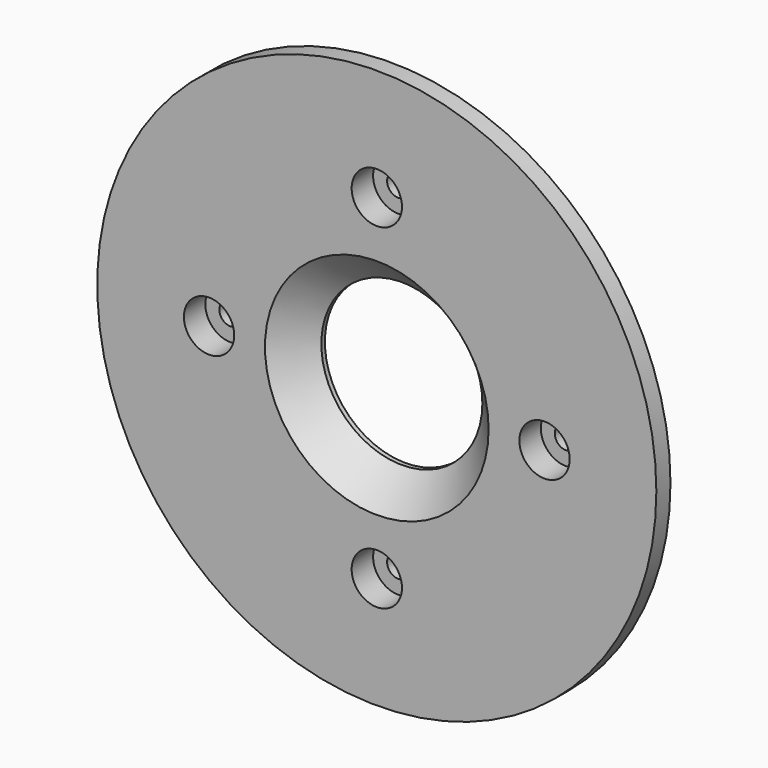
from build123d import *

# Parameters (mm, degrees)
F0_R           = 62.5
F1_DEPTH       = 3.95
F2_R           = 45
F3_DEPTH       = 4.05
F6_D           = 5
F6_DEPTH       = 24.25
F6_CBORE_D     = 11.25
F6_CBORE_DEPTH = 6
F6_TIP         = 1.5021515476


with BuildPart() as f1:
    # F0 (on Front) → F1 (new body)
    with BuildSketch(Plane.XZ):
        Circle(F0_R)
    extrude(amount=-F1_DEPTH)

    # F2 (on face) → F3 (join)
    with BuildSketch(Plane(origin=(0, 3.95, 0), x_dir=(-1, 0, 0), z_dir=(0, 1, 0))):
        Circle(F2_R)
    extrude(amount=F3_DEPTH)

    # F4 (on Top) → F5 (revolve, cut)
    with BuildSketch(Plane.XY):
        Polygon((0, 8), (0, 0), (25, 0), (18, 7), (18, 8), align=None)
    revolve(axis=Axis((0, 4, 0), (0, 1, 0)), mode=Mode.SUBTRACT)

    # F6
    with Locations(Plane.XZ):
        with Locations((37.5, 0), (0, -37.5), (-37.5, 0), (0, 37.5)):
            CounterBoreHole(F6_D / 2, F6_CBORE_D / 2, F6_CBORE_DEPTH, depth=F6_DEPTH)
            with Locations((0, 0, -(F6_DEPTH + F6_TIP / 2))):  # 118° drill point
                Cone(0, F6_D / 2, F6_TIP, mode=Mode.SUBTRACT)


solid = f1.part
